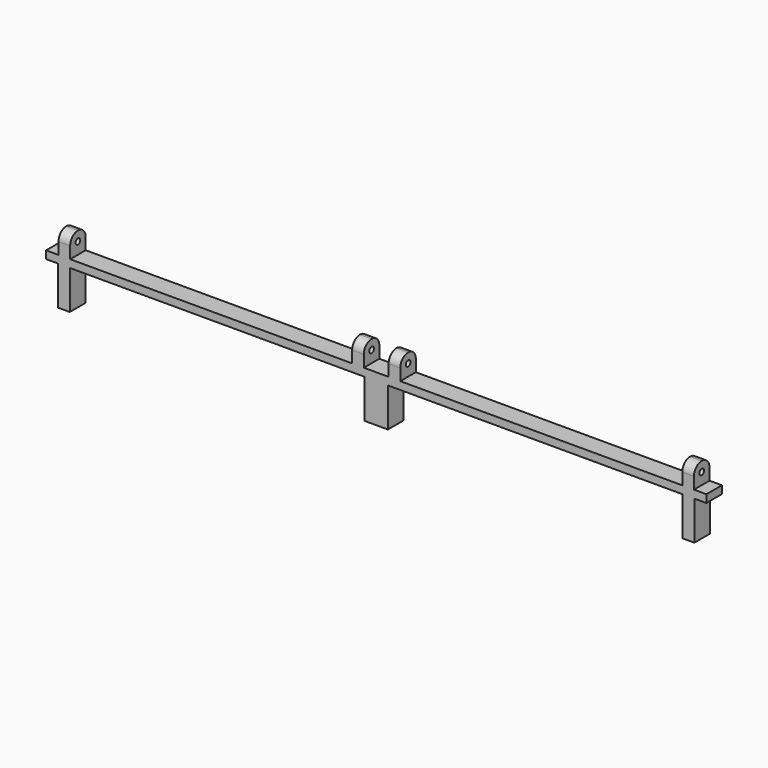
from build123d import *

# Parameters (mm, degrees)
SKETCH_W      = 170
SKETCH_H      = 5
PAD_DEPTH     = 2
SKETCH001_W   = 3
SKETCH001_H   = 5
PAD001_DEPTH  = 5.5
FILLET_R      = 2.49
SKETCH002_R   = 0.75
POCKET_DEPTH  = 200
SKETCH003_W   = 3
SKETCH003_H   = 5
SKETCH003_W_2 = 6
PAD002_DEPTH  = 10


with BuildPart() as part:
    # Sketch → Pad (new body)
    with BuildSketch(Plane.XY):
        Rectangle(SKETCH_W, SKETCH_H)
    extrude(amount=PAD_DEPTH)

    # Sketch001 (on Face6 of Pad) → Pad001 (join)
    with BuildSketch(Plane.XY.offset(2)):
        with Locations((-80.3, 0)):
            Rectangle(SKETCH001_W, SKETCH001_H)
        with Locations((80.3, 0)):
            Rectangle(SKETCH001_W, SKETCH001_H)
        with Locations((-4.7, 0)):
            Rectangle(SKETCH001_W, SKETCH001_H)
        with Locations((4.7, 0)):
            Rectangle(SKETCH001_W, SKETCH001_H)
    extrude(amount=PAD001_DEPTH)

    # Fillet
    fillet_edges = [part.edges().sort_by_distance(p)[0] for p in [
        (-80.3, -2.5, 7.5),
        (-4.7, -2.5, 7.5),
        (4.7, -2.5, 7.5),
        (80.3, -2.5, 7.5),
        (80.3, 2.5, 7.5),
        (4.7, 2.5, 7.5),
        (-4.7, 2.5, 7.5),
        (-80.3, 2.5, 7.5),
    ]]
    fillet(fillet_edges, radius=FILLET_R)

    # Sketch002 (on Face29 of Fillet) → Pocket (cut)
    with BuildSketch(Plane.YZ.offset(81.8)):
        with Locations((0, 5)):
            Circle(SKETCH002_R)
    extrude(amount=-POCKET_DEPTH, mode=Mode.SUBTRACT)

    # Sketch003 (on Face13 of Pocket) → Pad002 (join)
    with BuildSketch(Plane(origin=(0, 0, 0), x_dir=(1, 0, 0), z_dir=(0, 0, -1))):
        with Locations((-80.4, 0)):
            Rectangle(SKETCH003_W, SKETCH003_H)
        Rectangle(SKETCH003_W_2, SKETCH003_H)
        with Locations((80.4, 0)):
            Rectangle(SKETCH003_W, SKETCH003_H)
    extrude(amount=PAD002_DEPTH)


solid = part.part
